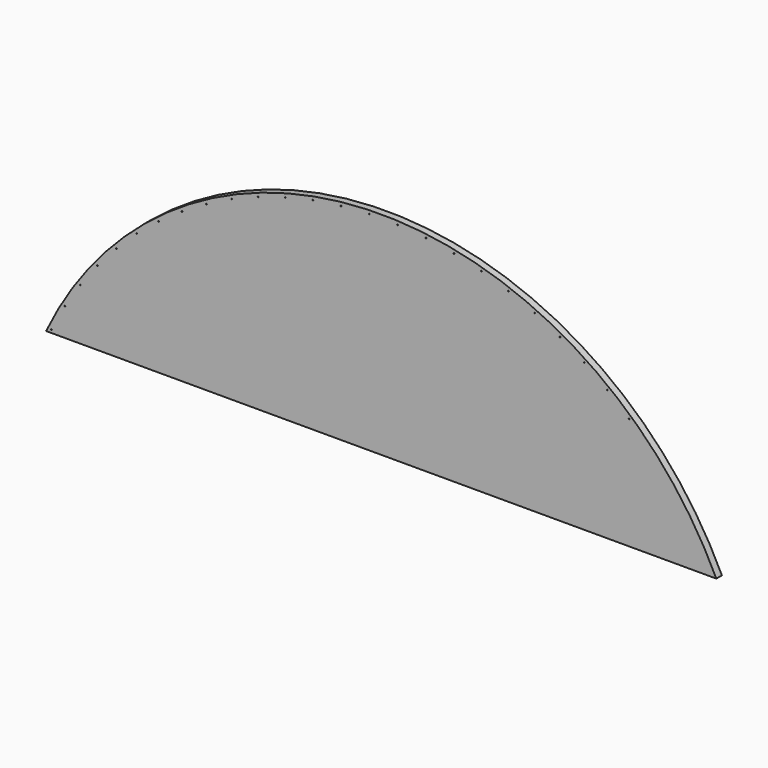
from build123d import *

# Parameters (mm, degrees)
F1_DEPTH = 25.4
F6_D     = 3.3


with BuildPart() as f1:
    # F0 (on Front) → F1 (new body)
    with BuildSketch(Plane.XZ):
        with BuildLine():
            Line((1191.0151816665, 0), (1219.2, 0))
            ThreePointArc((1219.2, 0), (0, 770.3886124758), (-1219.2, 0))
            Line((-1219.2, 0), (-1191.0151816665, 0))
            ThreePointArc((-1191.0151816665, 0), (0, 744.9886124758), (1191.0151816665, 0))
        make_face()
        with BuildLine():
            Line((-1191.0151816665, 0), (1191.0151816665, 0))
            ThreePointArc((1191.0151816665, 0), (0, 744.9886124758), (-1191.0151816665, 0))
        make_face()
    extrude(amount=-F1_DEPTH)

    # F6 (through all)
    with Locations(Plane.XZ):
        with Locations((-1199.8683853028, 10.8022473084), (-1150.7543393869, 101.5999410972), (-1094.7825871808, 188.3384772768), (-1032.2866819234, 270.5009536858), (-963.6390563295, 347.5977383394), (-889.2488031461, 419.1693872997), (-809.5592372404, 484.7893826469), (-725.0452537474, 544.0666742327), (-636.2104980208, 596.6480100716), (-543.5843642522, 642.2200414797), (-447.7188406447, 680.5111904186), (-349.1852199423, 711.2932679133), (-248.5706949173, 734.3828339027), (-146.4748591035, 749.642290416), (-43.5061336309, 756.9807015625), (59.721858547, 756.3543354468), (162.5939494253, 747.7669247813), (264.4970919263, 731.2696446413), (364.8240132401, 706.9608074972), (462.9768337533, 674.9852773391), (558.3706300019, 635.5336063874), (650.4369204132, 588.8408995317), (738.6270530661, 535.1854132675), (822.4154752804, 474.8868974778), (901.3028655499, 408.304689944)):
            Hole(F6_D / 2)


solid = f1.part
